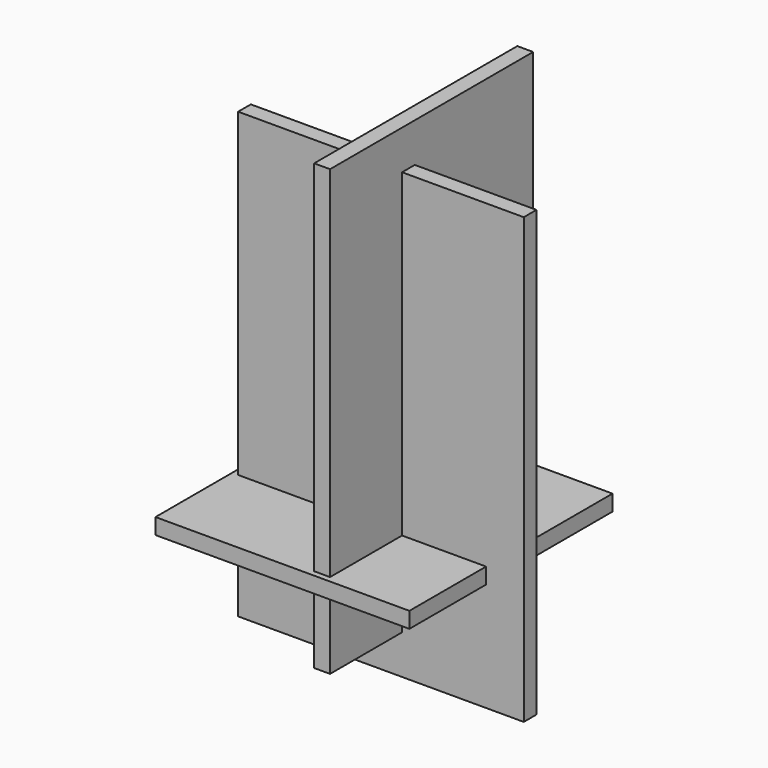
from build123d import *

# Parameters (mm, degrees)
F0_W     = 57.15
F0_H     = 88.9
F1_DEPTH = 3.175
F2_W     = 50.8
F2_H     = 88.9
F3_DEPTH = 3.175
F4_W     = 50.8
F4_H     = 50.8
F5_DEPTH = 3.175


with BuildPart() as f1:
    # F0 (on Front) → F1 (new body)
    with BuildSketch(Plane.XZ):
        with Locations((-1.052763, 22.712028)):
            Rectangle(F0_W, F0_H)
    extrude(amount=F1_DEPTH)


with BuildPart() as f3:
    # F2 (on Right) → F3 (new body)
    with BuildSketch(Plane.YZ):
        with Locations((4.211053, 30.57358)):
            Rectangle(F2_W, F2_H)
    extrude(amount=F3_DEPTH)


with BuildPart() as f5:
    # F4 (on Top) → F5 (new body)
    with BuildSketch(Plane.XY):
        with Locations((-5.41421, 3.042601)):
            Rectangle(F4_W, F4_H)
    extrude(amount=F5_DEPTH)


solid = Compound([f1.part, f3.part, f5.part])
